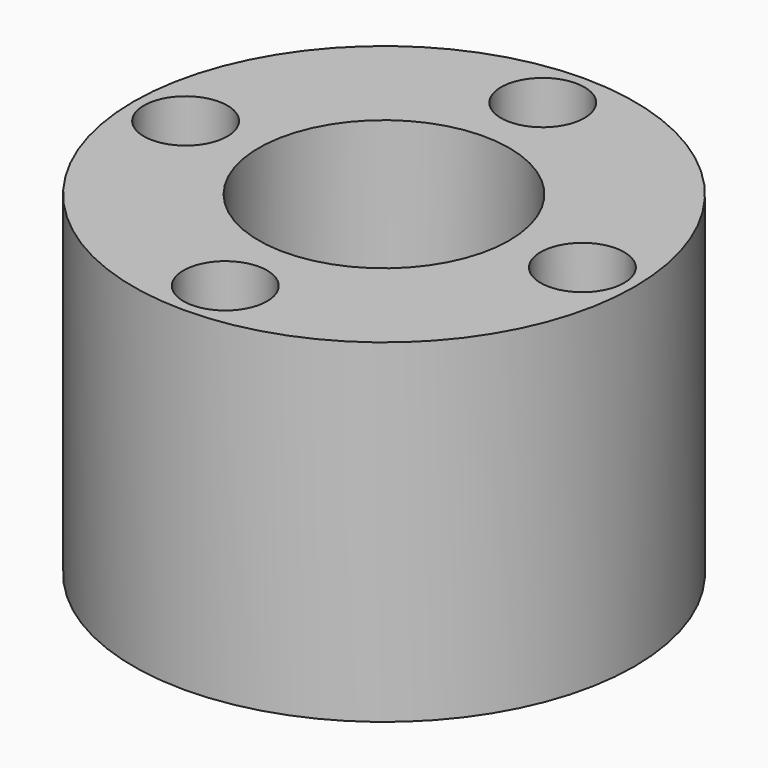
from build123d import *

# Parameters (mm, degrees)
F0_R     = 6
F0_R_2   = 3
F1_DEPTH = 8
F2_R     = 1
F3_DEPTH = 5


with BuildPart() as f1:
    # F0 (on Top) → F1 (new body)
    with BuildSketch(Plane.XY):
        Circle(F0_R)
        Circle(F0_R_2, mode=Mode.SUBTRACT)
    extrude(amount=F1_DEPTH)

    # F2 (on face) → F3 (cut)
    with BuildSketch(Plane.XY.offset(8)):
        with Locations((4.75, 0)):
            Circle(F2_R)
        with Locations((0, 4.75)):
            Circle(F2_R)
        with Locations((-4.75, 0)):
            Circle(F2_R)
        with Locations((0, -4.75)):
            Circle(F2_R)
    extrude(amount=-F3_DEPTH, mode=Mode.SUBTRACT)


solid = f1.part
